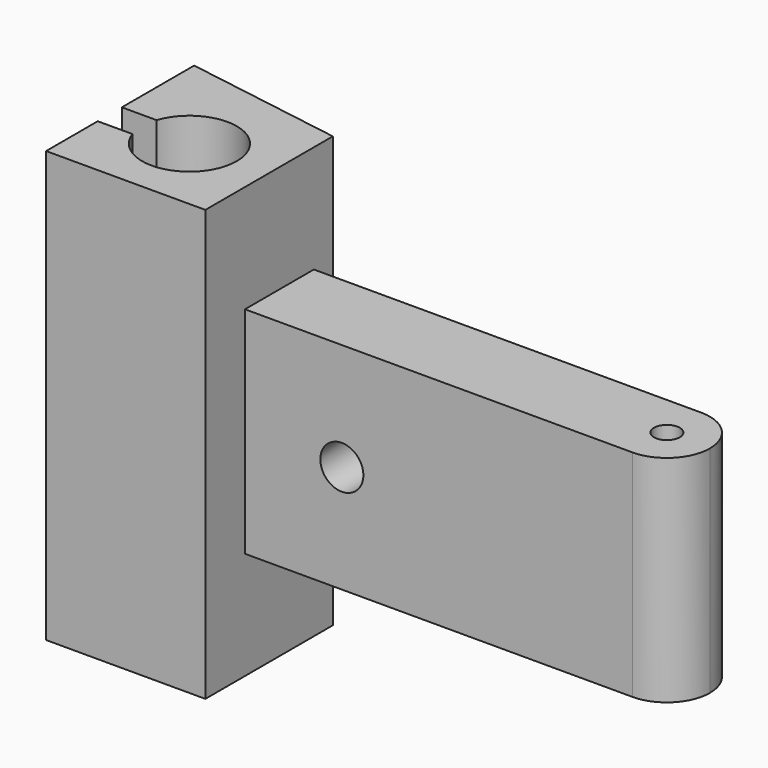
from build123d import *

# Parameters (mm, degrees)
F0_R     = 0.6
F1_DEPTH = 20
F2_W     = 18
F2_H     = 5
F2_W_2   = 2
F3_DEPTH = 4
F4_R     = 1
F5_DEPTH = 4


with BuildPart() as f1:
    # F0 (on Top) → F1 (new body)
    with BuildSketch(Plane.XY):
        with BuildLine():
            ThreePointArc((-2.085665, 0.7), (2.2, 0), (-2.085665, -0.7))
            Line((-2.085665, -0.7), (-3.7, -0.7))
            Line((-3.7, -0.7), (-3.7, -3.7))
            Line((-3.7, -3.7), (3.7, -3.7))
            Line((3.7, -3.7), (3.7, -1.4))
            Line((3.7, -1.4), (21.7, -1.4))
            ThreePointArc((21.7, -1.4), (23.114214, -0.814214), (23.7, 0.6))
            ThreePointArc((23.7, 0.6), (23.114214, 2.014214), (21.7, 2.6))
            Line((21.7, 2.6), (3.7, 2.6))
            Line((3.7, 2.6), (3.7, 3.7))
            Line((3.7, 3.7), (-3.7, 4.9))
            Line((-3.7, 4.9), (-3.7, 0.7))
            Line((-3.7, 0.7), (-2.085665, 0.7))
        make_face()
        with Locations((21.7, 0.6)):
            Circle(F0_R, mode=Mode.SUBTRACT)
    extrude(amount=F1_DEPTH)

    # F2 (on face) → F3 (cut)
    with BuildSketch(Plane.XZ.offset(1.4)):
        with Locations((12.7, 2.5)):
            Rectangle(F2_W, F2_H)
        with Locations((22.7, 2.5)):
            Rectangle(F2_W_2, F2_H)
        with Locations((22.7, 17.5)):
            Rectangle(F2_W_2, F2_H)
        with Locations((12.7, 17.5)):
            Rectangle(F2_W, F2_H)
    extrude(amount=-F3_DEPTH, mode=Mode.SUBTRACT)

    # F4 (on face) → F5 (cut)
    with BuildSketch(Plane(origin=(0, 2.6, 0), x_dir=(-1, 0, 0), z_dir=(0, 1, 0))):
        with Locations((-8.2, 10)):
            Circle(F4_R)
    extrude(amount=-F5_DEPTH, mode=Mode.SUBTRACT)


solid = f1.part
